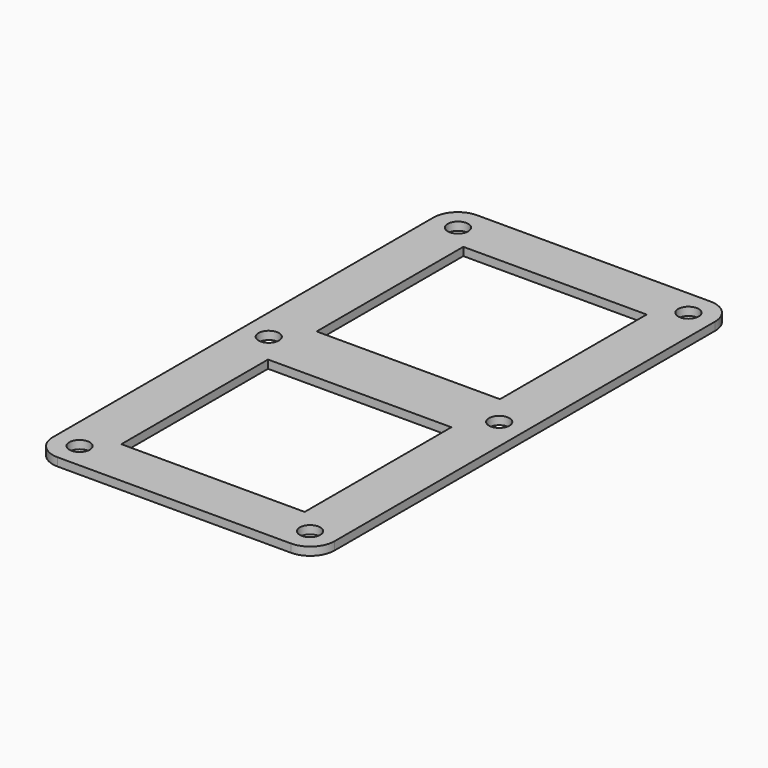
from build123d import *

# Parameters (mm, degrees)
F0_R     = 2.54
F0_W     = 45.466
F0_H     = 45.466
F1_DEPTH = 2.032


with BuildPart() as f1:
    # F0 (on Top) → F1 (new body)
    with BuildSketch(Plane.XY):
        with BuildLine():
            Line((28.925, 65), (-28.925, 65))
            ThreePointArc((-28.925, 65), (-33.167641, 63.242641), (-34.925, 59))
            Line((-34.925, 59), (-34.925, -59))
            ThreePointArc((-34.925, -59), (-33.167641, -63.242641), (-28.925, -65))
            Line((-28.925, -65), (28.925, -65))
            ThreePointArc((28.925, -65), (33.167641, -63.242641), (34.925, -59))
            Line((34.925, -59), (34.925, 59))
            ThreePointArc((34.925, 59), (33.167641, 63.242641), (28.925, 65))
        make_face()
        with Locations((-28.575, -58.65)):
            Circle(F0_R, mode=Mode.SUBTRACT)
        with Locations((28.575, -58.65)):
            Circle(F0_R, mode=Mode.SUBTRACT)
        with Locations((0, -30.267)):
            Rectangle(F0_W, F0_H, mode=Mode.SUBTRACT)
        with Locations((-28.575, 0)):
            Circle(F0_R, mode=Mode.SUBTRACT)
        with Locations((-28.575, 58.65)):
            Circle(F0_R, mode=Mode.SUBTRACT)
        with Locations((0, 30.267)):
            Rectangle(F0_W, F0_H, mode=Mode.SUBTRACT)
        with Locations((28.575, 0)):
            Circle(F0_R, mode=Mode.SUBTRACT)
        with Locations((28.575, 58.65)):
            Circle(F0_R, mode=Mode.SUBTRACT)
    extrude(amount=F1_DEPTH)


solid = f1.part
